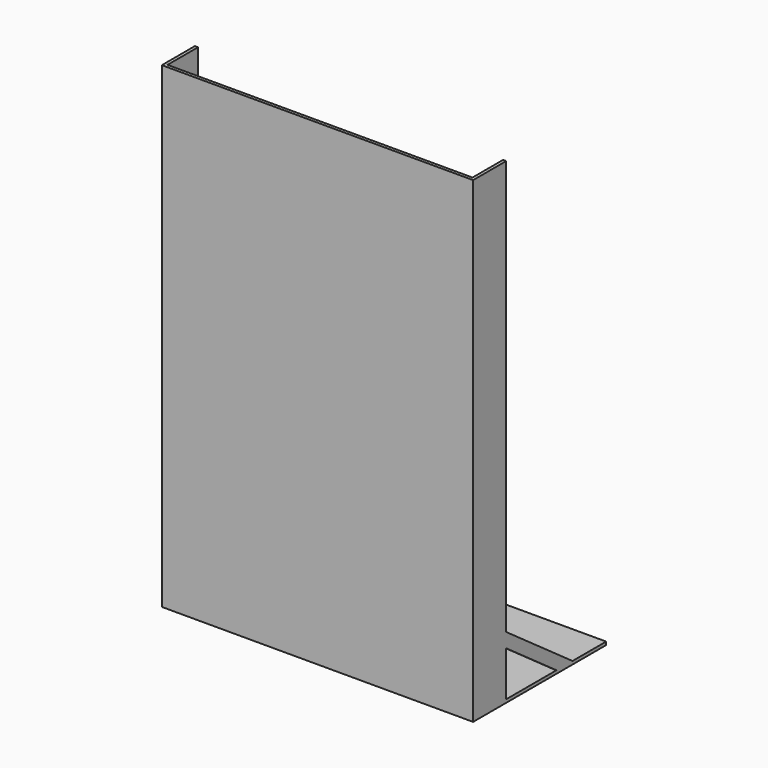
from build123d import *

# Parameters (mm, degrees)
F0_W      = 157.48
F0_H      = 82.55
F1_DEPTH  = 1.5875
F2_W      = 157.48
F2_H      = 241.3
F3_DEPTH  = 1.5875
F4_W      = 19.304
F4_H      = 241.3
F5_DEPTH  = 1.5875
F7_W      = 24.9697454274
F7_H      = 239.1684796894
F8_DEPTH  = 1.5875
F10_W     = 19.304
F10_H     = 241.3
F11_DEPTH = 1.5875
F13_DEPTH = 1.5875
F15_DEPTH = 1.5875


with BuildPart() as f1:
    # F0 (on Top) → F1 (new body)
    with BuildSketch(Plane.XY):
        with Locations((78.74, 41.275)):
            Rectangle(F0_W, F0_H)
        with Locations((78.74, 41.275)):
            Rectangle(F0_W, F0_H)
    extrude(amount=F1_DEPTH)

    # F2 (on Front) → F3 (join)
    with BuildSketch(Plane.XZ):
        with Locations((78.74, 120.65)):
            Rectangle(F2_W, F2_H)
    extrude(amount=F3_DEPTH)

    # F4 (on Right) → F5 (join)
    with BuildSketch(Plane.YZ):
        with Locations((9.652, 120.65)):
            Rectangle(F4_W, F4_H)
    extrude(amount=F5_DEPTH)

    # F10 (on 3pt) → F11 (join)
    with BuildSketch(Plane.YZ.offset(157.48)):
        with Locations((9.652, 120.65)):
            Rectangle(F10_W, F10_H)
    extrude(amount=-F11_DEPTH)

    # F12 (on 3pt) → F13 (join)
    with BuildSketch(Plane.YZ.offset(157.48)):
        Polygon((63.5, 0), (0, 45.3571428571), (0, 38.1), (53.34, 0), align=None)
    extrude(amount=-F13_DEPTH)

    # F14 (on Right) → F15 (join)
    with BuildSketch(Plane.YZ):
        Polygon((63.5, 0), (0, 45.3571428571), (0, 38.1), (53.34, 0), align=None)
    extrude(amount=F15_DEPTH)


with BuildPart() as f8:
    # F7 (on 3pt) → F8 (new body)
    with BuildSketch(Plane.YZ.offset(157.48)):
        with Locations((12.4848727137, 121.3677601772)):
            Rectangle(F7_W, F7_H)
    extrude(amount=-F8_DEPTH)


solid = f1.part
